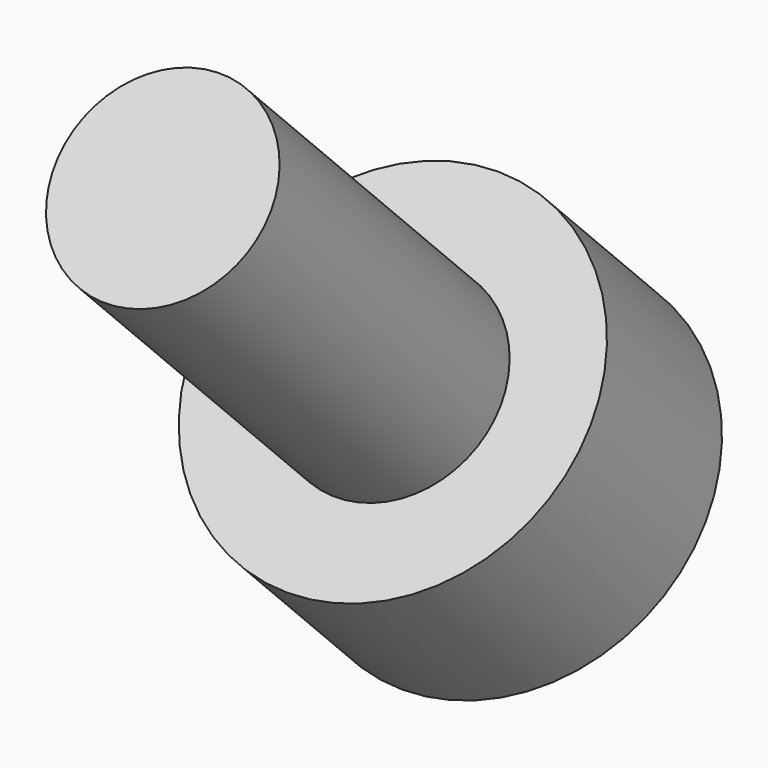
from build123d import *

# Parameters (mm, degrees)
SKETCH051_R             = 2.75
PAD027_DEPTH            = 3
SKETCH050_R             = 1.5
PAD026_DEPTH            = 6
POCKET023_DEPTH         = 4
BODY014_PLACEMENT_ANGLE = 225


with BuildPart() as part:
    # Sketch051 → Pad027 (new body)
    with BuildSketch(Plane.XY):
        Circle(SKETCH051_R)
    extrude(amount=PAD027_DEPTH)

    # Sketch050 (on Face2 of Pad027) → Pad026 (join)
    with BuildSketch(Plane(origin=(0, 0, 0), x_dir=(1, 0, 0), z_dir=(0, 0, -1))):
        Circle(SKETCH050_R)
    extrude(amount=PAD026_DEPTH)

    # Sketch052 (on DatumPlane) → Pocket023 (cut)
    with BuildSketch(Plane.XY.offset(3)):
        Polygon((0.721688, -1.25), (1.443376, 0), (0.721688, 1.25), (-0.721688, 1.25), (-1.443376, 0), (-0.721688, -1.25), align=None)
    extrude(amount=-POCKET023_DEPTH, mode=Mode.SUBTRACT)


with BuildPart() as part_1:
    # Body014 placement: moved
    add(part.part.moved(Location((-143.48, -61.94635, 6.089879))).rotate(Axis((-143.48, -61.94635, 6.089879), (1, 0, 0)), BODY014_PLACEMENT_ANGLE))


solid = part_1.part
